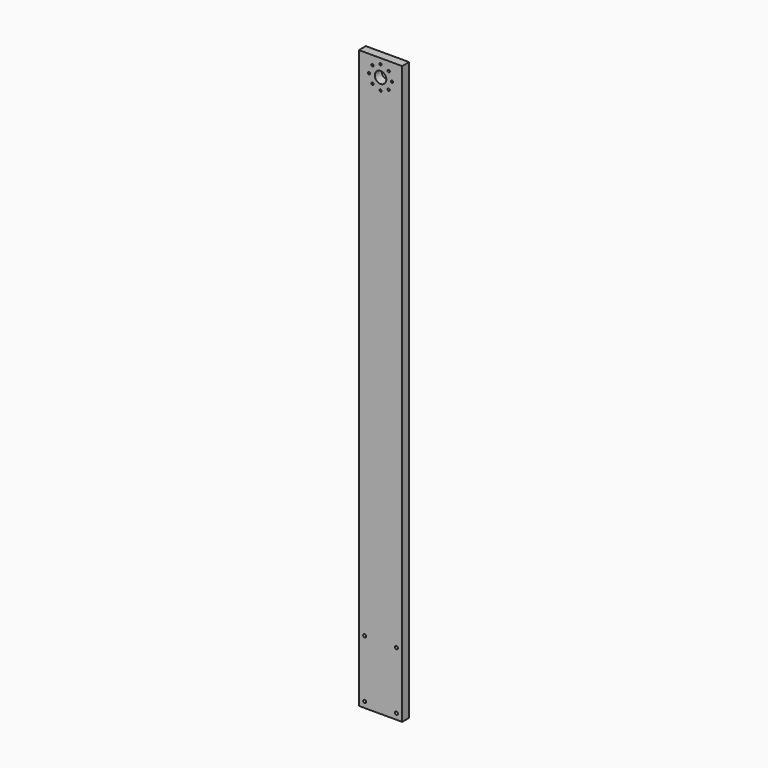
from build123d import *

# Parameters (mm, degrees)
F0_W     = 30
F0_H     = 6
F1_DEPTH = 200
F2_R     = 0.8
F2_R_2   = 4
F2_R_3   = 1.025
F3_DEPTH = 6


with BuildPart() as f1:
    # F0 (on Top) → F1 (new body, symmetric)
    with BuildSketch(Plane.XY):
        Rectangle(F0_W, F0_H)
    extrude(amount=F1_DEPTH, both=True)

    # F2 (on face) → F3 (cut, through all)
    with BuildSketch(Plane.XZ.offset(3)):
        with Locations((0, 196.2)):
            Circle(F2_R)
        with Locations((0, 188.2)):
            Circle(F2_R_2)
        with Locations((-5.656854, 193.856854)):
            Circle(F2_R)
        with Locations((-8, 188.2)):
            Circle(F2_R)
        with Locations((-5.656854, 182.543146)):
            Circle(F2_R)
        with Locations((0, 180.2)):
            Circle(F2_R)
        with Locations((5.656854, 182.543146)):
            Circle(F2_R)
        with Locations((8, 188.2)):
            Circle(F2_R)
        with Locations((5.656854, 193.856854)):
            Circle(F2_R)
        with Locations((11, -195.975)):
            Circle(F2_R_3)
        with Locations((11, -155.975)):
            Circle(F2_R_3)
        with Locations((-11, -155.975)):
            Circle(F2_R_3)
        with Locations((-11, -195.975)):
            Circle(F2_R_3)
    extrude(amount=-F3_DEPTH, mode=Mode.SUBTRACT)


solid = f1.part
